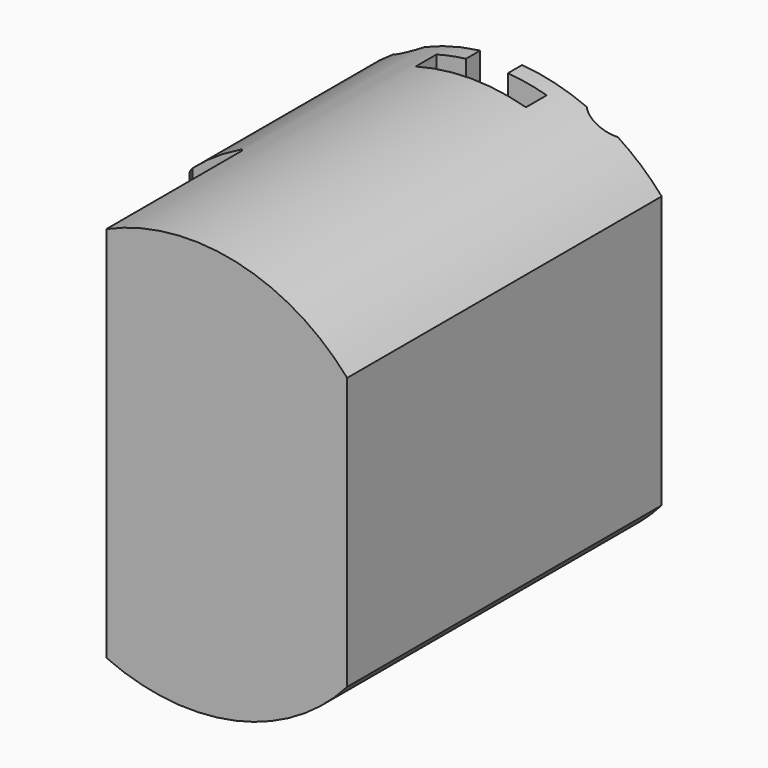
from build123d import *

# Parameters (mm, degrees)
F0_R           = 30
F1_DEPTH       = 65
F3_DEPTH       = 100
F5_DEPTH       = 30.001
F6_DEPTH       = 30.001
F7_W           = 15.4366167262
F7_H           = 36.5562289953
F8_DEPTH       = 30.001
F9_DEPTH       = 30.001
F10_SIZE       = 2
F11_R          = 0.8
F12_R          = 3
F13_DEPTH      = 30.0010001
F13_DEPTH_BACK = 40
F14_DEPTH      = 8
F15_DEPTH      = 8
F16_DEPTH      = 8


with BuildPart() as f1:
    # F0 (on Front) → F1 (new body)
    with BuildSketch(Plane.XZ):
        Circle(F0_R)
    extrude(amount=F1_DEPTH)

    # F2 (on face) → F3 (cut)
    with BuildSketch(Plane.XZ.offset(65)):
        Polygon((-21.9606160964, -36.838453263), (-21.9606160964, 0), (-21.9606160964, 35.5276139707), (-38.4832583368, 35.5276139707), (-38.4832583368, -36.838453263), align=None)
        Polygon((48.3217574656, 35.5276139707), (22.611644119, 35.5276139707), (22.611644119, -36.6470105946), (22.611644119, -36.838453263), (48.3217574656, -36.838453263), align=None)
    extrude(amount=-F3_DEPTH, mode=Mode.SUBTRACT)

    # F4 (on Top) → F5 (cut, through all)
    with BuildSketch(Plane.XY):
        Polygon((-3.7071546579, 1.4132426067), (-3.7071546579, 0), (-3.7071546579, -2.5668929264), (-8, -2.5668929264), (-8, -6.3375936387), (8, -6.3375936387), (8, -2.5668929264), (2.3758972687, -2.5668929264), (2.3758972687, 0), (2.3758972687, 1.4132426067), align=None)
    extrude(amount=F5_DEPTH, mode=Mode.SUBTRACT)

    # F4 (on Top) → F6 (cut, through all)
    with BuildSketch(Plane.XY):
        Polygon((-3.7071546579, 1.4132426067), (-3.7071546579, 0), (-3.7071546579, -2.5668929264), (-8, -2.5668929264), (-8, -6.3375936387), (8, -6.3375936387), (8, -2.5668929264), (2.3758972687, -2.5668929264), (2.3758972687, 0), (2.3758972687, 1.4132426067), align=None)
    extrude(amount=-F6_DEPTH, mode=Mode.SUBTRACT)

    # F7 (on Top) → F8 (cut, through all)
    with BuildSketch(Plane.XY):
        with Locations((-20.028361585, -50.1266494393)):
            Rectangle(F7_W, F7_H)
    extrude(amount=-F8_DEPTH, mode=Mode.SUBTRACT)

    # F7 (on Top) → F9 (cut, through all)
    with BuildSketch(Plane.XY):
        with Locations((-20.028361585, -50.1266494393)):
            Rectangle(F7_W, F7_H)
    extrude(amount=F9_DEPTH, mode=Mode.SUBTRACT)

    # F10
    f10_edges = [f1.edges().sort_by_distance(p)[0] for p in [
        (-21.960616, -31.848535, 0),
    ]]
    chamfer(f10_edges, length=F10_SIZE)

    # F11
    f11_edges = [f1.edges().sort_by_distance(p)[0] for p in [
        (-12.310053, -31.848535, 0),
    ]]
    fillet(f11_edges, radius=F11_R)

    # F12 (on Top) → F13 (cut, two sides)
    with BuildSketch(Plane.XY) as f13_sk:
        with Locations((-14, 2)):
            Circle(F12_R)
        with Locations((14, 2)):
            Circle(F12_R)
    extrude(amount=F13_DEPTH, mode=Mode.SUBTRACT)
    extrude(f13_sk.sketch, amount=-F13_DEPTH_BACK, mode=Mode.SUBTRACT)

    # F14 (add): a face of the model
    f14_faces = [f1.faces().sort_by_distance(p)[0] for p in [
        (4.422443075, -65, 0),
    ]]
    extrude(f14_faces, amount=-F14_DEPTH)

    # F15 (add): a face of the model
    f15_faces = [f1.faces().sort_by_distance(p)[0] for p in [
        (4.422443075, -65, 0),
    ]]
    extrude(f15_faces, amount=-F15_DEPTH)

    # F16 (cut): a face of the model
    f16_faces = [f1.faces().sort_by_distance(p)[0] for p in [
        (4.422443075, -65, 0),
    ]]
    extrude(f16_faces, amount=-F16_DEPTH, mode=Mode.SUBTRACT)


solid = f1.part
